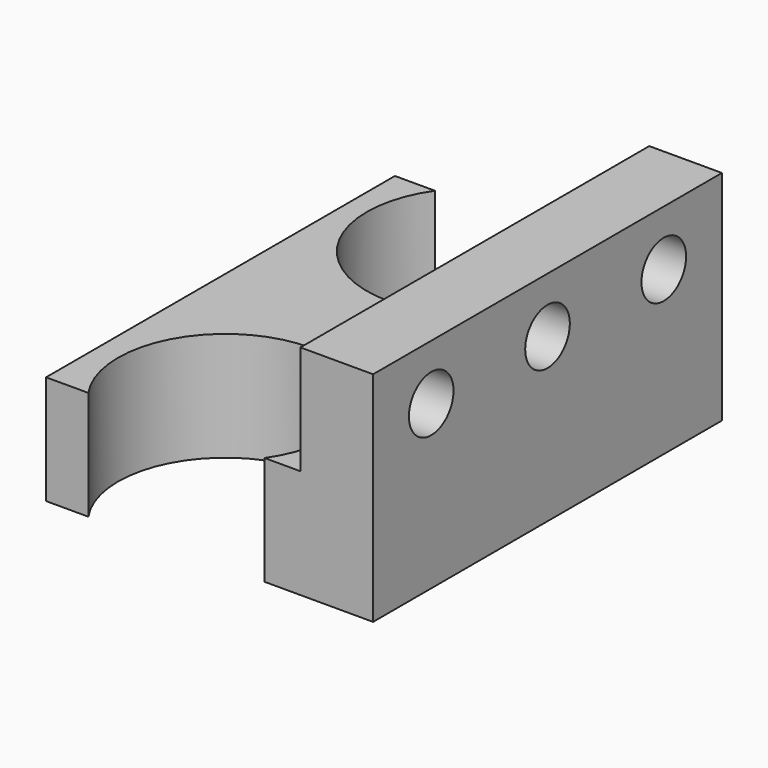
from build123d import *

# Parameters (mm, degrees)
F1_DEPTH = 15
F2_W     = 60
F2_H     = 30
F3_DEPTH = 10
F4_R     = 3.836856
F5_DEPTH = 25


with BuildPart() as f1:
    # F0 (on Top) → F1 (new body)
    with BuildSketch(Plane.XY):
        with BuildLine():
            Line((5.510565, 0), (0, 0))
            Line((0, 0), (0, -60))
            Line((0, -60), (5.815111, -60))
            ThreePointArc((5.815111, -60), (17.941032, -36.85211), (30.066952, -60))
            Line((30.066952, -60), (35, -60))
            Line((35, -60), (35, 0))
            Line((35, 0), (29.736414, 0))
            ThreePointArc((29.736414, 0), (17.62349, -23.166624), (5.510565, 0))
        make_face()
    extrude(amount=F1_DEPTH)

    # F2 (on face) → F3 (join)
    with BuildSketch(Plane.YZ.offset(35)):
        with Locations((-30, 15)):
            Rectangle(F2_W, F2_H)
    extrude(amount=F3_DEPTH)

    # F4 (on face) → F5 (cut)
    with BuildSketch(Plane(origin=(35, 0, 0), x_dir=(0, -1, 0), z_dir=(-1, 0, 0))):
        with Locations((10.00252, 22.384789)):
            Circle(F4_R)
        with Locations((30.00252, 22.384789)):
            Circle(F4_R)
        with Locations((50.00252, 22.384789)):
            Circle(F4_R)
    extrude(amount=-F5_DEPTH, mode=Mode.SUBTRACT)


solid = f1.part
